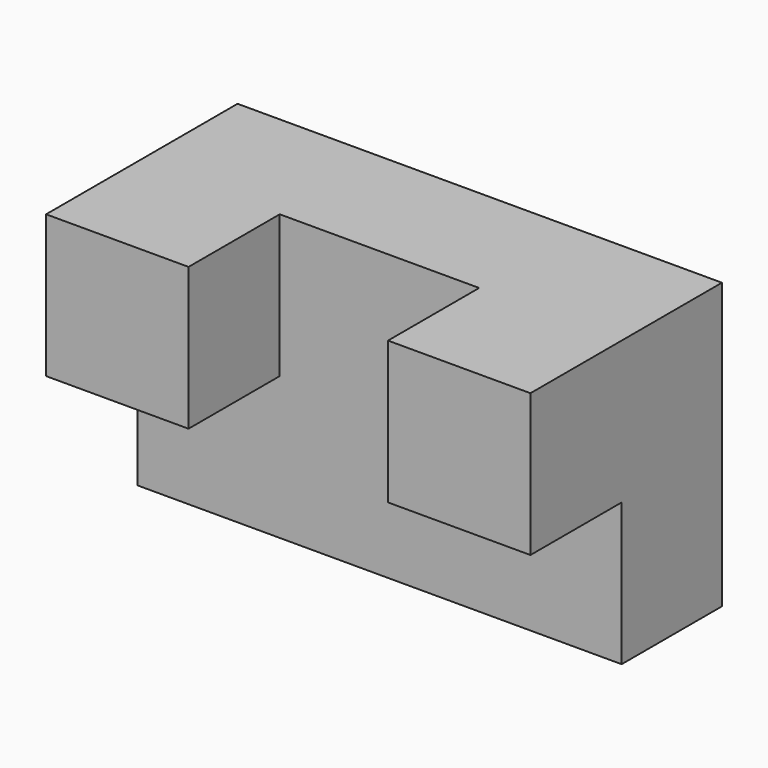
from build123d import *

# Parameters (mm, degrees)
F0_W     = 85
F0_H     = 50
F1_DEPTH = 22
F2_W     = 25
F2_H     = 25
F3_DEPTH = 20


with BuildPart() as f1:
    # F0 (on Front) → F1 (new body)
    with BuildSketch(Plane.XZ):
        with Locations((42.5, 25)):
            Rectangle(F0_W, F0_H)
    extrude(amount=F1_DEPTH)

    # F2 (on face) → F3 (join)
    with BuildSketch(Plane.XZ.offset(22)):
        with Locations((12.5, 37.5)):
            Rectangle(F2_W, F2_H)
        with Locations((72.5, 37.5)):
            Rectangle(F2_W, F2_H)
    extrude(amount=F3_DEPTH)


solid = f1.part
